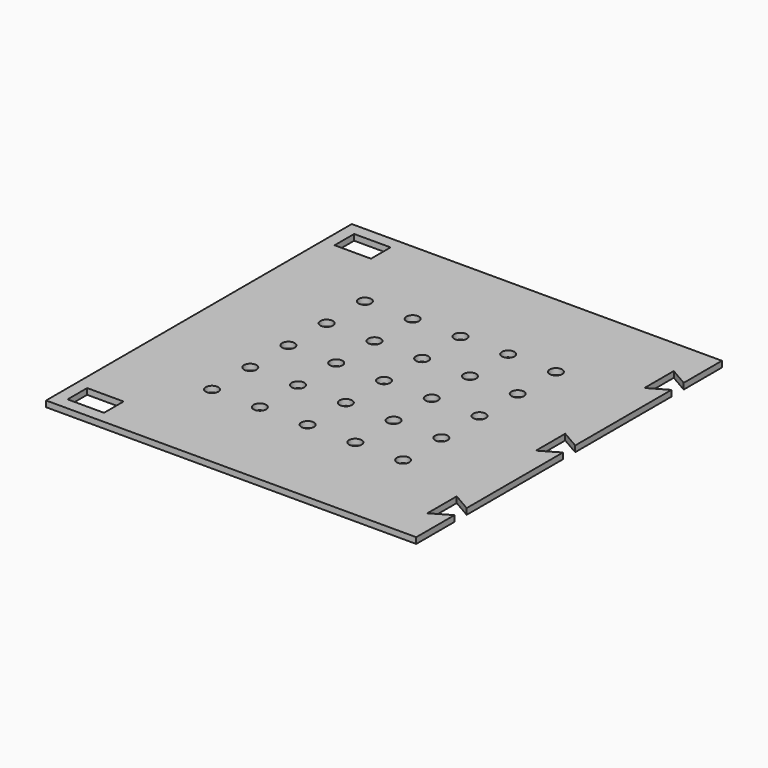
from build123d import *

# Parameters (mm, degrees)
SKETCH_W        = 155
SKETCH_H        = 160
PAD_DEPTH       = 2.5
SKETCH001_W     = 15.25
SKETCH001_H     = 10.25
POCKET_DEPTH    = 2.5
SKETCH002_R     = 2.625
POCKET001_DEPTH = 2.5
POCKET002_DEPTH = 2.5


with BuildPart() as part:
    # Sketch → Pad (new body)
    with BuildSketch(Plane.XY):
        with Locations((0.10674, -30.909095)):
            Rectangle(SKETCH_W, SKETCH_H)
    extrude(amount=PAD_DEPTH)

    # Sketch001 (on Face6 of Pad) → Pocket (cut)
    with BuildSketch(Plane.XY.offset(2.5)):
        with Locations((-64.76826, 38.965905)):
            Rectangle(SKETCH001_W, SKETCH001_H)
        with Locations((-64.76826, -100.784095)):
            Rectangle(SKETCH001_W, SKETCH001_H)
    extrude(amount=-POCKET_DEPTH, mode=Mode.SUBTRACT)

    # Sketch002 (on Face5 of Pocket) → Pocket001 (cut)
    with BuildSketch(Plane.XY.offset(2.5)):
        with Locations((-19.89326, -30.909095)):
            Circle(SKETCH002_R)
        with Locations((-39.89326, -30.909095)):
            Circle(SKETCH002_R)
        with Locations((0.10674, -30.909095)):
            Circle(SKETCH002_R)
        with Locations((20.10674, -30.909095)):
            Circle(SKETCH002_R)
        with Locations((40.10674, -30.909095)):
            Circle(SKETCH002_R)
        with Locations((-39.89326, -10.909095)):
            Circle(SKETCH002_R)
        with Locations((-19.89326, -10.909095)):
            Circle(SKETCH002_R)
        with Locations((0.10674, -10.909095)):
            Circle(SKETCH002_R)
        with Locations((20.10674, -10.909095)):
            Circle(SKETCH002_R)
        with Locations((40.10674, -10.909095)):
            Circle(SKETCH002_R)
        with Locations((-39.89326, -50.909095)):
            Circle(SKETCH002_R)
        with Locations((-19.89326, -50.909095)):
            Circle(SKETCH002_R)
        with Locations((0.10674, -50.909095)):
            Circle(SKETCH002_R)
        with Locations((20.10674, -50.909095)):
            Circle(SKETCH002_R)
        with Locations((40.10674, -50.909095)):
            Circle(SKETCH002_R)
        with Locations((-39.89326, -70.909095)):
            Circle(SKETCH002_R)
        with Locations((-19.89326, -70.909095)):
            Circle(SKETCH002_R)
        with Locations((0.10674, -70.909095)):
            Circle(SKETCH002_R)
        with Locations((20.10674, -70.909095)):
            Circle(SKETCH002_R)
        with Locations((40.10674, -70.909095)):
            Circle(SKETCH002_R)
        with Locations((-39.89326, 9.090905)):
            Circle(SKETCH002_R)
        with Locations((-19.89326, 9.090905)):
            Circle(SKETCH002_R)
        with Locations((0.10674, 9.090905)):
            Circle(SKETCH002_R)
        with Locations((20.10674, 9.090905)):
            Circle(SKETCH002_R)
        with Locations((40.10674, 9.090905)):
            Circle(SKETCH002_R)
    extrude(amount=-POCKET001_DEPTH, mode=Mode.SUBTRACT)

    # Sketch003 (on Face5 of Pocket001) → Pocket002 (cut)
    with BuildSketch(Plane.XY.offset(2.5)):
        Polygon((77.60674, -90.909095), (69.85674, -95.38356), (69.85674, -80.03356), (77.60674, -84.508024), align=None)
        Polygon((77.60674, -34.110166), (69.85674, -38.58463), (69.85674, -23.23463), (77.60674, -27.709095), align=None)
        Polygon((77.60674, 22.689834), (69.85674, 18.21537), (69.85674, 33.56537), (77.60674, 29.090905), align=None)
    extrude(amount=-POCKET002_DEPTH, mode=Mode.SUBTRACT)


solid = part.part
